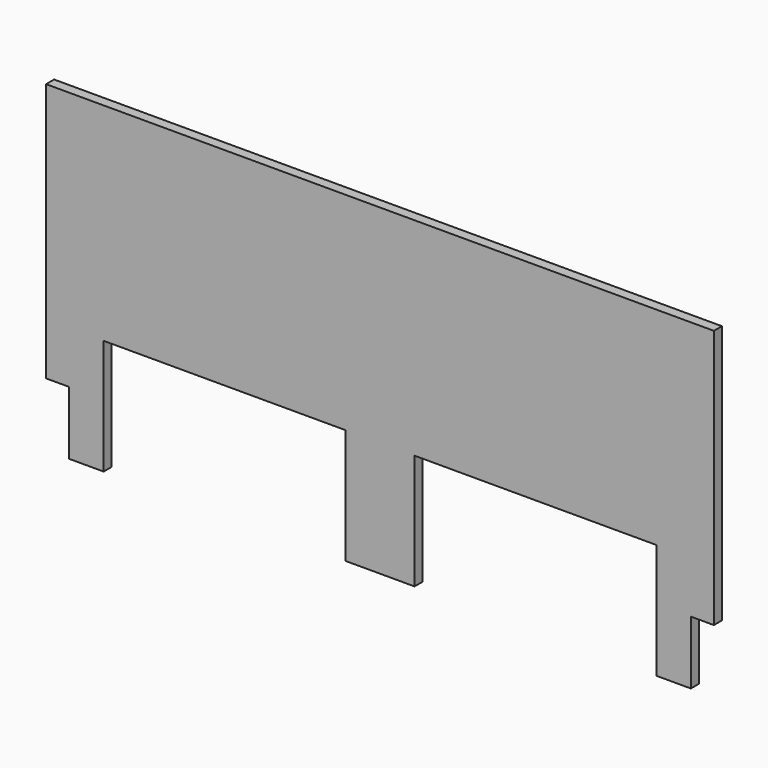
from build123d import *

# Parameters (mm, degrees)
F0_W     = 533.4
F0_H     = 457.2
F1_DEPTH = 22.225
F0_W_2   = 50.8
F0_H_2   = 139.7
F2_DEPTH = 22.225


with BuildPart() as f1:
    # F0 (on Front) → F1 (new body)
    with BuildSketch(Plane.XZ):
        Polygon((-96.683324, 711.2), (-223.683324, 711.2), (-223.683324, 139.7), (-172.883324, 139.7), (-172.883324, 0), (-96.683324, 0), (-96.683324, 254), align=None)
        with Locations((170.016676, 482.6)):
            Rectangle(F0_W, F0_H)
        Polygon((1249.516676, 711.2), (1122.516676, 711.2), (1122.516676, 254), (1122.516676, 0), (1198.716676, 0), (1198.716676, 139.7), (1249.516676, 139.7), align=None)
        with Locations((855.816676, 482.6)):
            Rectangle(F0_W, F0_H)
        Polygon((589.116676, 711.2), (436.716676, 711.2), (436.716676, 254), (436.716676, 0), (589.116676, 0), (589.116676, 254), align=None)
    extrude(amount=-F1_DEPTH)

    # F0 (on Front) → F2 (cut)
    with BuildSketch(Plane.XZ):
        with Locations((-198.283324, 69.85)):
            Rectangle(F0_W_2, F0_H_2)
        with Locations((1224.116676, 69.85)):
            Rectangle(F0_W_2, F0_H_2)
        Polygon((-96.683324, 711.2), (-223.683324, 711.2), (-223.683324, 139.7), (-172.883324, 139.7), (-172.883324, 0), (-96.683324, 0), (-96.683324, 254), align=None)
        with Locations((170.016676, 482.6)):
            Rectangle(F0_W, F0_H)
        with Locations((-198.283324, 69.85)):
            Rectangle(F0_W_2, F0_H_2)
        Polygon((589.116676, 711.2), (436.716676, 711.2), (436.716676, 254), (436.716676, 0), (589.116676, 0), (589.116676, 254), align=None)
        with Locations((855.816676, 482.6)):
            Rectangle(F0_W, F0_H)
        Polygon((1249.516676, 711.2), (1122.516676, 711.2), (1122.516676, 254), (1122.516676, 0), (1198.716676, 0), (1198.716676, 139.7), (1249.516676, 139.7), align=None)
        with Locations((1224.116676, 69.85)):
            Rectangle(F0_W_2, F0_H_2)
    extrude(amount=F2_DEPTH, mode=Mode.SUBTRACT)


solid = f1.part
